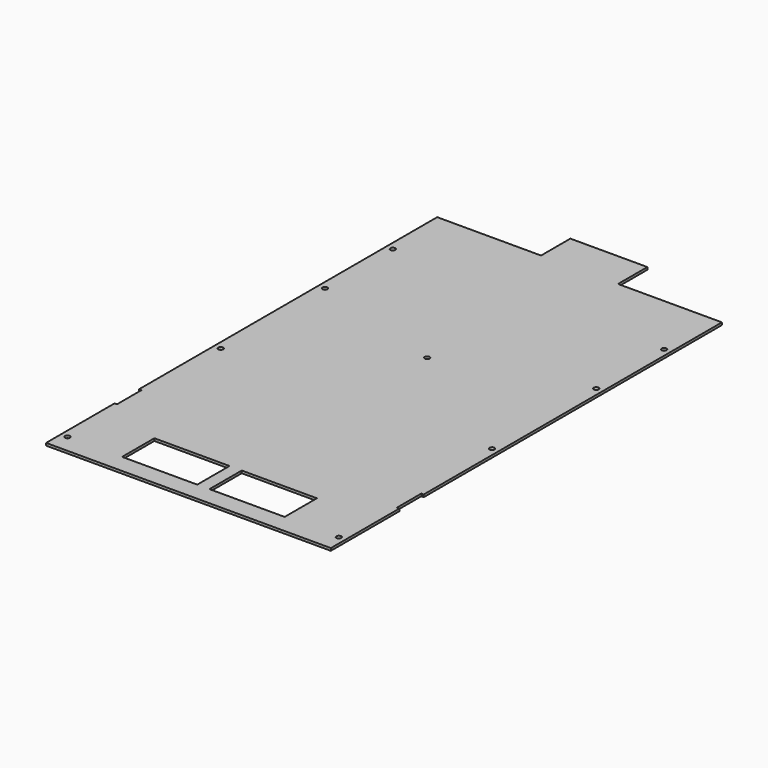
from build123d import *

# Parameters (mm, degrees)
F0_W     = 233
F0_H     = 430
F1_DEPTH = 2
F2_W     = 85
F2_H     = 30
F2_W_2   = 61.5
F2_H_2   = 33
F2_W_3   = 2
F2_H_3   = 25
F2_R     = 2
F3_DEPTH = 2.001


with BuildPart() as f1:
    # F0 (on Top) → F1 (new body)
    with BuildSketch(Plane.XY):
        Rectangle(F0_W, F0_H)
    extrude(amount=F1_DEPTH)

    # F2 (on face) → F3 (cut, through all)
    with BuildSketch(Plane.XY.offset(2)):
        with Locations((-74, 200)):
            Rectangle(F2_W, F2_H)
        with Locations((74, 200)):
            Rectangle(F2_W, F2_H)
        with Locations((-35.75, -183.25)):
            Rectangle(F2_W_2, F2_H_2)
        with Locations((35.75, -183.25)):
            Rectangle(F2_W_2, F2_H_2)
        with Locations((-115.5, -132.5)):
            Rectangle(F2_W_3, F2_H_3)
        with Locations((115.5, -132.5)):
            Rectangle(F2_W_3, F2_H_3)
        with Locations((-111, 132.77711)):
            Circle(F2_R)
        with Locations((111, 132.77711)):
            Circle(F2_R)
        with Locations((-111, 63.28708)):
            Circle(F2_R)
        with Locations((111, 63.28708)):
            Circle(F2_R)
        with Locations((-111, -43.205046)):
            Circle(F2_R)
        with Locations((111, -43.205046)):
            Circle(F2_R)
        with Locations((111, -200)):
            Circle(F2_R)
        with Locations((-111, -200)):
            Circle(F2_R)
        with Locations((0, 29.134061)):
            Circle(F2_R)
    extrude(amount=-F3_DEPTH, mode=Mode.SUBTRACT)


solid = f1.part
